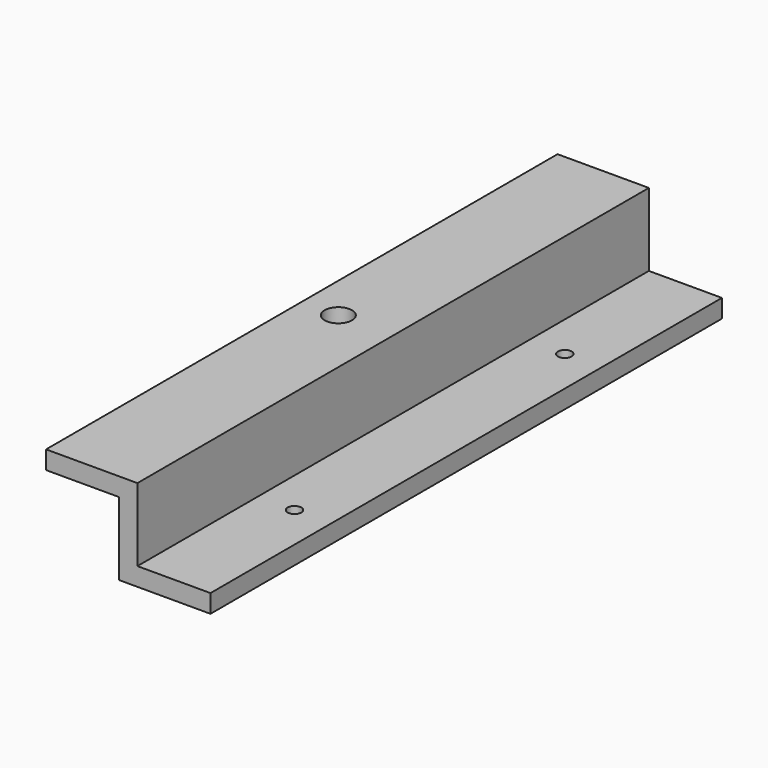
from build123d import *

# Parameters (mm, degrees)
CYLINDER024_R          = 1.5
CYLINDER024_DEPTH      = 4
CYLINDER023_R          = 1.5
CYLINDER023_DEPTH      = 4
CYLINDER025_R          = 3
CYLINDER025_DEPTH      = 4
BOX043_W               = 140
BOX043_H               = 20
BOX043_DEPTH           = 4
BOX044_W               = 140
BOX044_H               = 20
BOX044_DEPTH           = 4
BOX042_W               = 140
BOX042_H               = 4
BOX042_DEPTH           = 20
CUT032_PLACEMENT_ANGLE = -90


with BuildPart() as obj1:
    # Cylinder024 → Cylinder024 (new body)
    with BuildSketch(Plane(origin=(107, 12, 0), x_dir=(1, 0, 0), z_dir=(0, 0, 1))):
        Circle(CYLINDER024_R)
    extrude(amount=CYLINDER024_DEPTH)


with BuildPart() as obj2:
    # Cylinder023 → Cylinder023 (new body)
    with BuildSketch(Plane(origin=(33, 12, 0), x_dir=(1, 0, 0), z_dir=(0, 0, 1))):
        Circle(CYLINDER023_R)
    extrude(amount=CYLINDER023_DEPTH)


with BuildPart() as obj3:
    # Cylinder025 → Cylinder025 (new body)
    with BuildSketch(Plane(origin=(70, -8, 16), x_dir=(1, 0, 0), z_dir=(0, 0, 1))):
        Circle(CYLINDER025_R)
    extrude(amount=CYLINDER025_DEPTH)

    # Fusion024: union obj1, obj2
    add(obj1.part)
    add(obj2.part)


with BuildPart() as obj4:
    # Box043 → Box043 (new body)
    with BuildSketch(Plane.XY):
        with Locations((70, 10)):
            Rectangle(BOX043_W, BOX043_H)
    extrude(amount=BOX043_DEPTH)


with BuildPart() as obj5:
    # Box044 → Box044 (new body)
    with BuildSketch(Plane(origin=(0, -16, 16), x_dir=(1, 0, 0), z_dir=(0, 0, 1))):
        with Locations((70, 10)):
            Rectangle(BOX044_W, BOX044_H)
    extrude(amount=BOX044_DEPTH)


with BuildPart() as obj6:
    # Box042 → Box042 (new body)
    with BuildSketch(Plane.XY):
        with Locations((70, 2)):
            Rectangle(BOX042_W, BOX042_H)
    extrude(amount=BOX042_DEPTH)

    # Fusion023: union obj4, obj5
    add(obj4.part)
    add(obj5.part)

    # Cut032: cut obj3
    add(obj3.part, mode=Mode.SUBTRACT)


with BuildPart() as obj6_1:
    # Cut032 placement: moved
    add(obj6.part.moved(Location((116, 70, -74))).rotate(Axis((116, 70, -74), (0, 0, 1)), CUT032_PLACEMENT_ANGLE))


solid = obj6_1.part
